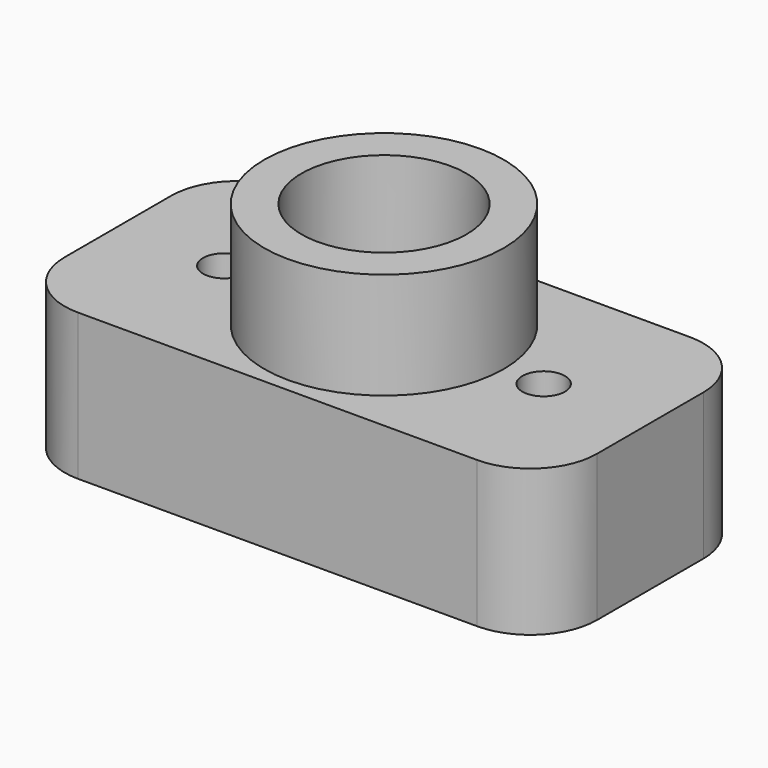
from build123d import *

# Parameters (mm, degrees)
F0_W     = 40
F0_H     = 20
F0_R     = 1.6
F0_R_2   = 6.25
F1_DEPTH = 11
F2_R     = 9
F2_R_2   = 6.2
F3_DEPTH = 8
F4_R     = 5


with BuildPart() as f1:
    # F0 (on Top) → F1 (new body)
    with BuildSketch(Plane.XY):
        with Locations((20, 10)):
            Rectangle(F0_W, F0_H)
        with Locations((8, 10)):
            Circle(F0_R, mode=Mode.SUBTRACT)
        with Locations((20, 10)):
            Circle(F0_R_2, mode=Mode.SUBTRACT)
        with Locations((32, 10)):
            Circle(F0_R, mode=Mode.SUBTRACT)
    extrude(amount=F1_DEPTH)

    # F2 (on face) → F3 (join)
    with BuildSketch(Plane.XY.offset(11)):
        with Locations((20, 10)):
            Circle(F2_R)
        with Locations((20, 10)):
            Circle(F2_R_2, mode=Mode.SUBTRACT)
    extrude(amount=F3_DEPTH)

    # F4
    f4_edges = [f1.edges().sort_by_distance(p)[0] for p in [
        (40, 20, 5.5),
        (40, 0, 5.5),
        (0, 0, 5.5),
        (0, 20, 5.5),
    ]]
    fillet(f4_edges, radius=F4_R)


solid = f1.part
